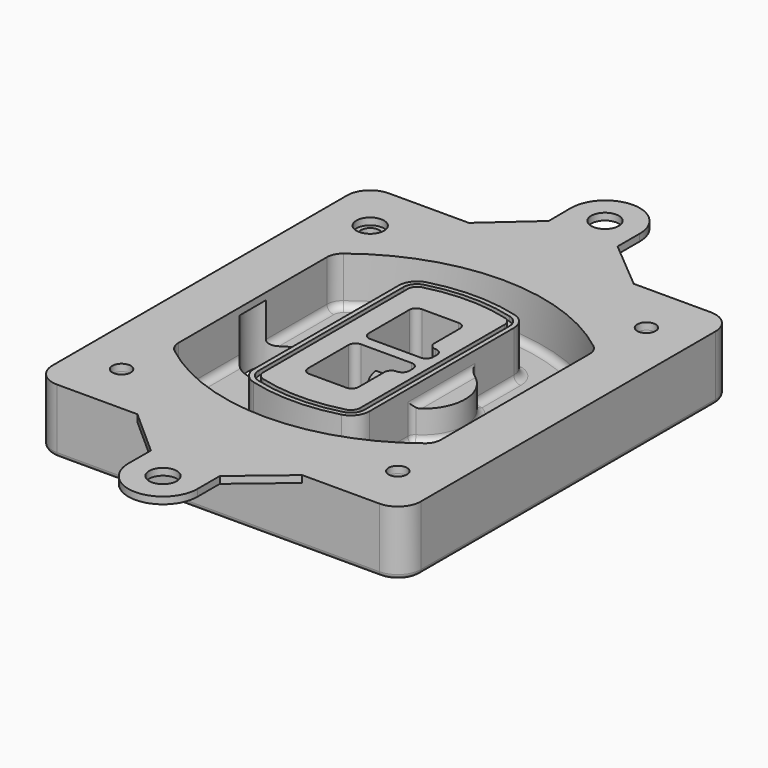
from build123d import *

# Parameters (mm, degrees)
F0_R      = 4
F1_DEPTH  = 25
F2_DEPTH  = 3
F3_DEPTH  = 18
F5_DEPTH  = 21
F6_DEPTH  = 2
F8_DEPTH  = 20
F9_DEPTH  = 16
F10_DEPTH = 25
F7_R      = 6
F7_R_2    = 4
F11_DEPTH = 6
F13_DEPTH = 9
F14_R     = 3
F15_R     = 2
F16_R     = 3.994159008
F16_R_2   = 3.9998575888
F16_R_3   = 6.0078105936
F16_R_4   = 3.9750263549
F16_R_5   = 6
F17_DEPTH = 3


with BuildPart() as f1:
    # F0 (on Top) → F1 (new body)
    with BuildSketch(Plane.XY):
        with BuildLine():
            ThreePointArc((-80, -80), (-77.0710678119, -87.0710678119), (-70, -90))
            Line((-70, -90), (70, -90))
            ThreePointArc((70, -90), (77.0710678119, -87.0710678119), (80, -80))
            Line((80, -80), (80, 80))
            ThreePointArc((80, 80), (77.0710678119, 87.0710678119), (70, 90))
            Line((70, 90), (-70, 90))
            ThreePointArc((-70, 90), (-77.0710678119, 87.0710678119), (-80, 80))
            Line((-80, 80), (-80, -80))
        make_face()
        with Locations((-60, -67.5)):
            Circle(F0_R, mode=Mode.SUBTRACT)
        with Locations((60, -67.5)):
            Circle(F0_R, mode=Mode.SUBTRACT)
        with Locations((-60, 67.5)):
            Circle(F0_R, mode=Mode.SUBTRACT)
        with BuildLine():
            ThreePointArc((-64, 40.2934422872), (-62.5820384798, 46.4328484224), (-58.6153846154, 51.3286200352))
            ThreePointArc((-58.6153846154, 51.3286200352), (0, 71.5), (58.6153846154, 51.3286200352))
            ThreePointArc((58.6153846154, 51.3286200352), (62.5820384798, 46.4328484224), (64, 40.2934422872))
            Line((64, 40.2934422872), (64, -40.2934422872))
            ThreePointArc((64, -40.2934422872), (62.5820384798, -46.4328484224), (58.6153846154, -51.3286200352))
            ThreePointArc((58.6153846154, -51.3286200352), (0, -71.5), (-58.6153846154, -51.3286200352))
            ThreePointArc((-58.6153846154, -51.3286200352), (-62.5820384798, -46.4328484224), (-64, -40.2934422872))
            Line((-64, -40.2934422872), (-64, 40.2934422872))
        make_face(mode=Mode.SUBTRACT)
        with Locations((60, 67.5)):
            Circle(F0_R, mode=Mode.SUBTRACT)
        with BuildLine():
            ThreePointArc((58.6153846154, 51.3286200352), (0, 71.5), (-58.6153846154, 51.3286200352))
            ThreePointArc((-58.6153846154, 51.3286200352), (-62.5820384798, 46.4328484224), (-64, 40.2934422872))
            Line((-64, 40.2934422872), (-64, -40.2934422872))
            ThreePointArc((-64, -40.2934422872), (-62.5820384798, -46.4328484224), (-58.6153846154, -51.3286200352))
            ThreePointArc((-58.6153846154, -51.3286200352), (0, -71.5), (58.6153846154, -51.3286200352))
            ThreePointArc((58.6153846154, -51.3286200352), (62.5820384798, -46.4328484224), (64, -40.2934422872))
            Line((64, -40.2934422872), (64, 40.2934422872))
            ThreePointArc((64, 40.2934422872), (62.5820384798, 46.4328484224), (58.6153846154, 51.3286200352))
        make_face()
        with BuildLine():
            Line((-60, -40.2934422872), (-60, 40.2934422872))
            ThreePointArc((-60, 40.2934422872), (-58.9871703427, 44.6787323838), (-56.1538461538, 48.1757121072))
            ThreePointArc((-56.1538461538, 48.1757121072), (0, 67.5), (56.1538461538, 48.1757121072))
            ThreePointArc((56.1538461538, 48.1757121072), (58.9871703427, 44.6787323838), (60, 40.2934422872))
            Line((60, 40.2934422872), (60, -40.2934422872))
            ThreePointArc((60, -40.2934422872), (58.9871703427, -44.6787323838), (56.1538461538, -48.1757121072))
            ThreePointArc((56.1538461538, -48.1757121072), (0, -67.5), (-56.1538461538, -48.1757121072))
            ThreePointArc((-56.1538461538, -48.1757121072), (-58.9871703427, -44.6787323838), (-60, -40.2934422872))
        make_face(mode=Mode.SUBTRACT)
        with BuildLine():
            ThreePointArc((-56.1538461538, 48.1757121072), (-58.9871703427, 44.6787323838), (-60, 40.2934422872))
            Line((-60, 40.2934422872), (-60, -40.2934422872))
            ThreePointArc((-60, -40.2934422872), (-58.9871703427, -44.6787323838), (-56.1538461538, -48.1757121072))
            ThreePointArc((-56.1538461538, -48.1757121072), (0, -67.5), (56.1538461538, -48.1757121072))
            ThreePointArc((56.1538461538, -48.1757121072), (58.9871703427, -44.6787323838), (60, -40.2934422872))
            Line((60, -40.2934422872), (60, 40.2934422872))
            ThreePointArc((60, 40.2934422872), (58.9871703427, 44.6787323838), (56.1538461538, 48.1757121072))
            ThreePointArc((56.1538461538, 48.1757121072), (0, 67.5), (-56.1538461538, 48.1757121072))
        make_face()
        with BuildLine():
            ThreePointArc((54.3076923077, 45.8110311612), (56.2910192399, 43.3631453548), (57, 40.2934422872))
            Line((57, 40.2934422872), (57, -40.2934422872))
            ThreePointArc((57, -40.2934422872), (56.2910192399, -43.3631453548), (54.3076923077, -45.8110311612))
            ThreePointArc((54.3076923077, -45.8110311612), (0, -64.5), (-54.3076923077, -45.8110311612))
            ThreePointArc((-54.3076923077, -45.8110311612), (-56.2910192399, -43.3631453548), (-57, -40.2934422872))
            Line((-57, -40.2934422872), (-57, 40.2934422872))
            ThreePointArc((-57, 40.2934422872), (-56.2910192399, 43.3631453548), (-54.3076923077, 45.8110311612))
            ThreePointArc((-54.3076923077, 45.8110311612), (0, 64.5), (54.3076923077, 45.8110311612))
        make_face(mode=Mode.SUBTRACT)
        with BuildLine():
            Line((57, -40.2934422872), (57, 40.2934422872))
            ThreePointArc((57, 40.2934422872), (56.2910192399, 43.3631453548), (54.3076923077, 45.8110311612))
            ThreePointArc((54.3076923077, 45.8110311612), (0, 64.5), (-54.3076923077, 45.8110311612))
            ThreePointArc((-54.3076923077, 45.8110311612), (-56.2910192399, 43.3631453548), (-57, 40.2934422872))
            Line((-57, 40.2934422872), (-57, -40.2934422872))
            ThreePointArc((-57, -40.2934422872), (-56.2910192399, -43.3631453548), (-54.3076923077, -45.8110311612))
            ThreePointArc((-54.3076923077, -45.8110311612), (0, -64.5), (54.3076923077, -45.8110311612))
            ThreePointArc((54.3076923077, -45.8110311612), (56.2910192399, -43.3631453548), (57, -40.2934422872))
        make_face()
    extrude(amount=-F1_DEPTH)

    # F0 (on Top) → F2 (join)
    with BuildSketch(Plane.XY):
        with BuildLine():
            ThreePointArc((-56.1538461538, 48.1757121072), (-58.9871703427, 44.6787323838), (-60, 40.2934422872))
            Line((-60, 40.2934422872), (-60, -40.2934422872))
            ThreePointArc((-60, -40.2934422872), (-58.9871703427, -44.6787323838), (-56.1538461538, -48.1757121072))
            ThreePointArc((-56.1538461538, -48.1757121072), (0, -67.5), (56.1538461538, -48.1757121072))
            ThreePointArc((56.1538461538, -48.1757121072), (58.9871703427, -44.6787323838), (60, -40.2934422872))
            Line((60, -40.2934422872), (60, 40.2934422872))
            ThreePointArc((60, 40.2934422872), (58.9871703427, 44.6787323838), (56.1538461538, 48.1757121072))
            ThreePointArc((56.1538461538, 48.1757121072), (0, 67.5), (-56.1538461538, 48.1757121072))
        make_face()
        with BuildLine():
            ThreePointArc((54.3076923077, 45.8110311612), (56.2910192399, 43.3631453548), (57, 40.2934422872))
            Line((57, 40.2934422872), (57, -40.2934422872))
            ThreePointArc((57, -40.2934422872), (56.2910192399, -43.3631453548), (54.3076923077, -45.8110311612))
            ThreePointArc((54.3076923077, -45.8110311612), (0, -64.5), (-54.3076923077, -45.8110311612))
            ThreePointArc((-54.3076923077, -45.8110311612), (-56.2910192399, -43.3631453548), (-57, -40.2934422872))
            Line((-57, -40.2934422872), (-57, 40.2934422872))
            ThreePointArc((-57, 40.2934422872), (-56.2910192399, 43.3631453548), (-54.3076923077, 45.8110311612))
            ThreePointArc((-54.3076923077, 45.8110311612), (0, 64.5), (54.3076923077, 45.8110311612))
        make_face(mode=Mode.SUBTRACT)
    extrude(amount=F2_DEPTH)

    # F0 (on Top) → F3 (cut)
    with BuildSketch(Plane.XY):
        with BuildLine():
            Line((57, -40.2934422872), (57, 40.2934422872))
            ThreePointArc((57, 40.2934422872), (56.2910192399, 43.3631453548), (54.3076923077, 45.8110311612))
            ThreePointArc((54.3076923077, 45.8110311612), (0, 64.5), (-54.3076923077, 45.8110311612))
            ThreePointArc((-54.3076923077, 45.8110311612), (-56.2910192399, 43.3631453548), (-57, 40.2934422872))
            Line((-57, 40.2934422872), (-57, -40.2934422872))
            ThreePointArc((-57, -40.2934422872), (-56.2910192399, -43.3631453548), (-54.3076923077, -45.8110311612))
            ThreePointArc((-54.3076923077, -45.8110311612), (0, -64.5), (54.3076923077, -45.8110311612))
            ThreePointArc((54.3076923077, -45.8110311612), (56.2910192399, -43.3631453548), (57, -40.2934422872))
        make_face()
    extrude(amount=-F3_DEPTH, mode=Mode.SUBTRACT)

    # F4 (on face) → F5 (join, through all)
    with BuildSketch(Plane.XY.offset(3)):
        with BuildLine():
            ThreePointArc((-25, -39.2465276821), (-23.3511545998, -44.1109737193), (-19.0842911877, -46.9702398883))
            ThreePointArc((-19.0842911877, -46.9702398883), (0, -49.5), (19.0842911877, -46.9702398883))
            ThreePointArc((19.0842911877, -46.9702398883), (23.3511545998, -44.1109737193), (25, -39.2465276821))
            Line((25, -39.2465276821), (25, 39.2465276821))
            ThreePointArc((25, 39.2465276821), (23.3511545998, 44.1109737193), (19.0842911877, 46.9702398883))
            ThreePointArc((19.0842911877, 46.9702398883), (0, 49.5), (-19.0842911877, 46.9702398883))
            ThreePointArc((-19.0842911877, 46.9702398883), (-23.3511545998, 44.1109737193), (-25, 39.2465276821))
            Line((-25, 39.2465276821), (-25, -39.2465276821))
        make_face()
        with BuildLine():
            ThreePointArc((18.5632183908, 45.0393118368), (21.7633659499, 42.89486221), (23, 39.2465276821))
            Line((23, 39.2465276821), (23, -39.2465276821))
            ThreePointArc((23, -39.2465276821), (21.7633659499, -42.89486221), (18.5632183908, -45.0393118368))
            ThreePointArc((18.5632183908, -45.0393118368), (0, -47.5), (-18.5632183908, -45.0393118368))
            ThreePointArc((-18.5632183908, -45.0393118368), (-21.7633659499, -42.89486221), (-23, -39.2465276821))
            Line((-23, -39.2465276821), (-23, 39.2465276821))
            ThreePointArc((-23, 39.2465276821), (-21.7633659499, 42.89486221), (-18.5632183908, 45.0393118368))
            ThreePointArc((-18.5632183908, 45.0393118368), (0, 47.5), (18.5632183908, 45.0393118368))
        make_face(mode=Mode.SUBTRACT)
        with BuildLine():
            Line((23, -39.2465276821), (23, 39.2465276821))
            ThreePointArc((23, 39.2465276821), (21.7633659499, 42.89486221), (18.5632183908, 45.0393118368))
            ThreePointArc((18.5632183908, 45.0393118368), (0, 47.5), (-18.5632183908, 45.0393118368))
            ThreePointArc((-18.5632183908, 45.0393118368), (-21.7633659499, 42.89486221), (-23, 39.2465276821))
            Line((-23, 39.2465276821), (-23, -39.2465276821))
            ThreePointArc((-23, -39.2465276821), (-21.7633659499, -42.89486221), (-18.5632183908, -45.0393118368))
            ThreePointArc((-18.5632183908, -45.0393118368), (0, -47.5), (18.5632183908, -45.0393118368))
            ThreePointArc((18.5632183908, -45.0393118368), (21.7633659499, -42.89486221), (23, -39.2465276821))
        make_face()
        with BuildLine():
            ThreePointArc((18.0421455939, 43.1083837852), (20.1755772999, 41.6787507007), (21, 39.2465276821))
            Line((21, 39.2465276821), (21, -39.2465276821))
            ThreePointArc((21, -39.2465276821), (20.1755772999, -41.6787507007), (18.0421455939, -43.1083837852))
            ThreePointArc((18.0421455939, -43.1083837852), (0, -45.5), (-18.0421455939, -43.1083837852))
            ThreePointArc((-18.0421455939, -43.1083837852), (-20.1755772999, -41.6787507007), (-21, -39.2465276821))
            Line((-21, -39.2465276821), (-21, 39.2465276821))
            ThreePointArc((-21, 39.2465276821), (-20.1755772999, 41.6787507007), (-18.0421455939, 43.1083837852))
            ThreePointArc((-18.0421455939, 43.1083837852), (0, 45.5), (18.0421455939, 43.1083837852))
        make_face(mode=Mode.SUBTRACT)
        with BuildLine():
            Line((21, -39.2465276821), (21, 39.2465276821))
            ThreePointArc((21, 39.2465276821), (20.1755772999, 41.6787507007), (18.0421455939, 43.1083837852))
            ThreePointArc((18.0421455939, 43.1083837852), (0, 45.5), (-18.0421455939, 43.1083837852))
            ThreePointArc((-18.0421455939, 43.1083837852), (-20.1755772999, 41.6787507007), (-21, 39.2465276821))
            Line((-21, 39.2465276821), (-21, -39.2465276821))
            ThreePointArc((-21, -39.2465276821), (-20.1755772999, -41.6787507007), (-18.0421455939, -43.1083837852))
            ThreePointArc((-18.0421455939, -43.1083837852), (0, -45.5), (18.0421455939, -43.1083837852))
            ThreePointArc((18.0421455939, -43.1083837852), (20.1755772999, -41.6787507007), (21, -39.2465276821))
        make_face()
        with BuildLine():
            Line((-8, -2.5), (14, -2.5))
            ThreePointArc((14, -2.5), (16.1213203436, -3.3786796564), (17, -5.5))
            Line((17, -5.5), (17, -7.5))
            ThreePointArc((17, -7.5), (16.1213203436, -9.6213203436), (14, -10.5))
            ThreePointArc((14, -10.5), (11.8786796564, -11.3786796564), (11, -13.5))
            Line((11, -13.5), (11, -27.5))
            ThreePointArc((11, -27.5), (10.1213203436, -29.6213203436), (8, -30.5))
            Line((8, -30.5), (-8, -30.5))
            ThreePointArc((-8, -30.5), (-10.1213203436, -29.6213203436), (-11, -27.5))
            Line((-11, -27.5), (-11, -5.5))
            ThreePointArc((-11, -5.5), (-10.1213203436, -3.3786796564), (-8, -2.5))
        make_face(mode=Mode.SUBTRACT)
        with BuildLine():
            ThreePointArc((-8, 2.5), (-10.1213203436, 3.3786796564), (-11, 5.5))
            Line((-11, 5.5), (-11, 27.5))
            ThreePointArc((-11, 27.5), (-10.1213203436, 29.6213203436), (-8, 30.5))
            Line((-8, 30.5), (8, 30.5))
            ThreePointArc((8, 30.5), (10.1213203436, 29.6213203436), (11, 27.5))
            Line((11, 27.5), (11, 13.5))
            ThreePointArc((11, 13.5), (11.8786796564, 11.3786796564), (14, 10.5))
            ThreePointArc((14, 10.5), (16.1213203436, 9.6213203436), (17, 7.5))
            Line((17, 7.5), (17, 5.5))
            ThreePointArc((17, 5.5), (16.1213203436, 3.3786796564), (14, 2.5))
            Line((14, 2.5), (-8, 2.5))
        make_face(mode=Mode.SUBTRACT)
    extrude(amount=-F5_DEPTH)

    # F4 (on face) → F6 (cut)
    with BuildSketch(Plane.XY.offset(3)):
        with BuildLine():
            Line((23, -39.2465276821), (23, 39.2465276821))
            ThreePointArc((23, 39.2465276821), (21.7633659499, 42.89486221), (18.5632183908, 45.0393118368))
            ThreePointArc((18.5632183908, 45.0393118368), (0, 47.5), (-18.5632183908, 45.0393118368))
            ThreePointArc((-18.5632183908, 45.0393118368), (-21.7633659499, 42.89486221), (-23, 39.2465276821))
            Line((-23, 39.2465276821), (-23, -39.2465276821))
            ThreePointArc((-23, -39.2465276821), (-21.7633659499, -42.89486221), (-18.5632183908, -45.0393118368))
            ThreePointArc((-18.5632183908, -45.0393118368), (0, -47.5), (18.5632183908, -45.0393118368))
            ThreePointArc((18.5632183908, -45.0393118368), (21.7633659499, -42.89486221), (23, -39.2465276821))
        make_face()
        with BuildLine():
            ThreePointArc((18.0421455939, 43.1083837852), (20.1755772999, 41.6787507007), (21, 39.2465276821))
            Line((21, 39.2465276821), (21, -39.2465276821))
            ThreePointArc((21, -39.2465276821), (20.1755772999, -41.6787507007), (18.0421455939, -43.1083837852))
            ThreePointArc((18.0421455939, -43.1083837852), (0, -45.5), (-18.0421455939, -43.1083837852))
            ThreePointArc((-18.0421455939, -43.1083837852), (-20.1755772999, -41.6787507007), (-21, -39.2465276821))
            Line((-21, -39.2465276821), (-21, 39.2465276821))
            ThreePointArc((-21, 39.2465276821), (-20.1755772999, 41.6787507007), (-18.0421455939, 43.1083837852))
            ThreePointArc((-18.0421455939, 43.1083837852), (0, 45.5), (18.0421455939, 43.1083837852))
        make_face(mode=Mode.SUBTRACT)
    extrude(amount=-F6_DEPTH, mode=Mode.SUBTRACT)

    # F7 (on face) → F8 (join)
    with BuildSketch(Plane(origin=(0, 0, -25), x_dir=(1, 0, 0), z_dir=(0, 0, -1))):
        with BuildLine():
            ThreePointArc((3.28842436, 0), (16.7567035675, 13.4682792075), (30.224982775, 0))
            Line((30.224982775, 0), (35.224982775, 0))
            ThreePointArc((35.224982775, 0), (16.7567035675, 18.4682792075), (-1.71157564, 0))
            Line((-1.71157564, 0), (3.28842436, 0))
        make_face()
        with BuildLine():
            Line((3.28842436, 0), (30.224982775, 0))
            ThreePointArc((30.224982775, 0), (16.7567035675, 13.4682792075), (3.28842436, 0))
        make_face()
        with BuildLine():
            ThreePointArc((3.28842436, 0), (16.7567035675, -13.4682792075), (30.224982775, 0))
            Line((30.224982775, 0), (3.28842436, 0))
        make_face()
        with BuildLine():
            Line((35.224982775, 0), (30.224982775, 0))
            ThreePointArc((30.224982775, 0), (16.7567035675, -13.4682792075), (3.28842436, 0))
            Line((3.28842436, 0), (-1.71157564, 0))
            ThreePointArc((-1.71157564, 0), (16.7567035675, -18.4682792075), (35.224982775, 0))
        make_face()
    extrude(amount=-F8_DEPTH)

    # F7 (on face) → F9 (cut)
    with BuildSketch(Plane(origin=(0, 0, -25), x_dir=(1, 0, 0), z_dir=(0, 0, -1))):
        with BuildLine():
            Line((3.28842436, 0), (30.224982775, 0))
            ThreePointArc((30.224982775, 0), (16.7567035675, 13.4682792075), (3.28842436, 0))
        make_face()
        with BuildLine():
            ThreePointArc((3.28842436, 0), (16.7567035675, -13.4682792075), (30.224982775, 0))
            Line((30.224982775, 0), (3.28842436, 0))
        make_face()
    extrude(amount=-F9_DEPTH, mode=Mode.SUBTRACT)

    # F7 (on face) → F10 (cut)
    with BuildSketch(Plane(origin=(0, 0, -25), x_dir=(1, 0, 0), z_dir=(0, 0, -1))):
        with BuildLine():
            Line((-59.0318229325, 0), (-32.0952645175, 0))
            ThreePointArc((-32.0952645175, 0), (-45.563543725, 13.4682792075), (-59.0318229325, 0))
        make_face()
        with BuildLine():
            ThreePointArc((-59.0318229325, 0), (-45.563543725, -13.4682792075), (-32.0952645175, 0))
            Line((-32.0952645175, 0), (-59.0318229325, 0))
        make_face()
    extrude(amount=-F10_DEPTH, mode=Mode.SUBTRACT)

    # F7 (on face) → F11 (cut)
    with BuildSketch(Plane(origin=(0, 0, -25), x_dir=(1, 0, 0), z_dir=(0, 0, -1))):
        with Locations((60, -67.5)):
            Circle(F7_R)
        with Locations((60, -67.5)):
            Circle(F7_R_2, mode=Mode.SUBTRACT)
        with Locations((60, -67.5)):
            Circle(F7_R)
        with Locations((60, -67.5)):
            Circle(F7_R_2, mode=Mode.SUBTRACT)
        with Locations((-60, -67.5)):
            Circle(F7_R)
        with Locations((-60, -67.5)):
            Circle(F7_R_2, mode=Mode.SUBTRACT)
        with Locations((-60, -67.5)):
            Circle(F7_R)
        with Locations((-60, -67.5)):
            Circle(F7_R_2, mode=Mode.SUBTRACT)
        with Locations((-60, 67.5)):
            Circle(F7_R)
        with Locations((-60, 67.5)):
            Circle(F7_R_2, mode=Mode.SUBTRACT)
        with Locations((-60, 67.5)):
            Circle(F7_R)
        with Locations((-60, 67.5)):
            Circle(F7_R_2, mode=Mode.SUBTRACT)
        with Locations((60, 67.5)):
            Circle(F7_R)
        with Locations((60, 67.5)):
            Circle(F7_R_2, mode=Mode.SUBTRACT)
        with Locations((60, 67.5)):
            Circle(F7_R)
        with Locations((60, 67.5)):
            Circle(F7_R_2, mode=Mode.SUBTRACT)
    extrude(amount=-F11_DEPTH, mode=Mode.SUBTRACT)

    # F12 (on face) → F13 (cut, through all)
    with BuildSketch(Plane(origin=(0, 0, -9), x_dir=(1, 0, 0), z_dir=(0, 0, -1))):
        with BuildLine():
            Line((11, 13.5), (11, 17.5481537753))
            ThreePointArc((11, 17.5481537753), (2.5696536419, 11.8239143813), (-1.5415842455, 2.5))
            Line((-1.5415842455, 2.5), (3.5224848595, 2.5))
            ThreePointArc((3.5224848595, 2.5), (6.1857188154, 8.3455872281), (11.2536447004, 12.2927168648))
            ThreePointArc((11.2536447004, 12.2927168648), (11.0640958889, 12.8831798879), (11, 13.5))
        make_face()
        with BuildLine():
            ThreePointArc((11.2536447004, -12.2927168648), (6.1857188154, -8.3455872281), (3.5224848595, -2.5))
            Line((3.5224848595, -2.5), (-1.5415842455, -2.5))
            ThreePointArc((-1.5415842455, -2.5), (2.5696536419, -11.8239143813), (11, -17.5481537753))
            Line((11, -17.5481537753), (11, -13.5))
            ThreePointArc((11, -13.5), (11.0640958889, -12.8831798879), (11.2536447004, -12.2927168648))
        make_face()
        with BuildLine():
            ThreePointArc((11.2536447004, 12.2927168648), (6.1857188154, 8.3455872281), (3.5224848595, 2.5))
            Line((3.5224848595, 2.5), (14, 2.5))
            ThreePointArc((14, 2.5), (16.1213203436, 3.3786796564), (17, 5.5))
            Line((17, 5.5), (17, 7.5))
            ThreePointArc((17, 7.5), (16.1213203436, 9.6213203436), (14, 10.5))
            ThreePointArc((14, 10.5), (12.3601599782, 10.9878446101), (11.2536447004, 12.2927168648))
        make_face()
        with BuildLine():
            Line((14, -2.5), (3.5224848595, -2.5))
            ThreePointArc((3.5224848595, -2.5), (6.1857188154, -8.3455872281), (11.2536447004, -12.2927168648))
            ThreePointArc((11.2536447004, -12.2927168648), (12.3601599782, -10.9878446101), (14, -10.5))
            ThreePointArc((14, -10.5), (16.1213203436, -9.6213203436), (17, -7.5))
            Line((17, -7.5), (17, -5.5))
            ThreePointArc((17, -5.5), (16.1213203436, -3.3786796564), (14, -2.5))
        make_face()
    extrude(amount=F13_DEPTH, mode=Mode.SUBTRACT)

    # F14
    f14_edges = [f1.edges().sort_by_distance(p)[0] for p in [
        (-57, -23.703476, -18),
        (-57, 23.703476, -18),
        (25, 0, -5),
        (25, 16.526506, -11.5),
        (25, -16.526506, -11.5),
        (25, -27.886517, -18),
        (35.224983, 0, -18),
    ]]
    fillet(f14_edges, radius=F14_R)

    # F15
    f15_edges = [f1.edges().sort_by_distance(p)[0] for p in [
        (0, -90, -25),
    ]]
    fillet(f15_edges, radius=F15_R)

    # F16 (on face) → F17 (join, through all)
    with BuildSketch(Plane.XY):
        with BuildLine():
            Line((-35.1292788982, 90), (-70, 90))
            ThreePointArc((-70, 90), (-77.0710678119, 87.0710678119), (-80, 80))
            Line((-80, 80), (-80, -80))
            ThreePointArc((-80, -80), (-77.0710678119, -87.0710678119), (-70, -90))
            Line((-70, -90), (-35.1292788982, -90))
            Line((-35.1292788982, -90), (36.4785343409, -90))
            Line((36.4785343409, -90), (70, -90))
            ThreePointArc((70, -90), (77.0710678119, -87.0710678119), (80, -80))
            Line((80, -80), (80, 80))
            ThreePointArc((80, 80), (77.0710678119, 87.0710678119), (70, 90))
            Line((70, 90), (36.4785343409, 90))
            Line((36.4785343409, 90), (-35.1292788982, 90))
        make_face()
        with Locations((-60, -67.5)):
            Circle(F16_R, mode=Mode.SUBTRACT)
        with Locations((60, -67.5)):
            Circle(F16_R_2, mode=Mode.SUBTRACT)
        with Locations((-60, 67.5)):
            Circle(F16_R_3, mode=Mode.SUBTRACT)
        with BuildLine():
            ThreePointArc((56.1538461538, -48.1757121072), (0, -67.5), (-56.1538461538, -48.1757121072))
            ThreePointArc((-56.1538461538, -48.1757121072), (-58.9871703427, -44.6787323838), (-60, -40.2934422872))
            Line((-60, -40.2934422872), (-60, 40.2934422872))
            ThreePointArc((-60, 40.2934422872), (-58.9871703427, 44.6787323838), (-56.1538461538, 48.1757121072))
            ThreePointArc((-56.1538461538, 48.1757121072), (0, 67.5), (56.1538461538, 48.1757121072))
            ThreePointArc((56.1538461538, 48.1757121072), (58.9871703427, 44.6787323838), (60, 40.2934422872))
            Line((60, 40.2934422872), (60, -40.2934422872))
            ThreePointArc((60, -40.2934422872), (58.9871703427, -44.6787323838), (56.1538461538, -48.1757121072))
        make_face(mode=Mode.SUBTRACT)
        with Locations((60, 67.5)):
            Circle(F16_R_4, mode=Mode.SUBTRACT)
        with BuildLine():
            Line((-14.8596997042, 108), (-35.1292788982, 90))
            Line((-35.1292788982, 90), (36.4785343409, 90))
            Line((36.4785343409, 90), (15.0625001279, 108))
            Line((15.0625001279, 108), (15.0625001279, 120))
            ThreePointArc((15.0625001279, 120), (0.0628103634, 135.0964726258), (-14.9368794011, 120))
            Line((-14.9368794011, 120), (-14.8596997042, 108))
        make_face()
        with Locations((0, 120)):
            Circle(F16_R_5, mode=Mode.SUBTRACT)
        with BuildLine():
            Line((36.4785343409, -90), (-35.1292788982, -90))
            Line((-35.1292788982, -90), (-14.8596997042, -108))
            Line((-14.8596997042, -108), (-14.9368794011, -120))
            ThreePointArc((-14.9368794011, -120), (0.0628103634, -135.0964726258), (15.0625001279, -120))
            Line((15.0625001279, -120), (15.0625001279, -108))
            Line((15.0625001279, -108), (36.4785343409, -90))
        make_face()
        with Locations((0, -120)):
            Circle(F16_R_5, mode=Mode.SUBTRACT)
    extrude(amount=F17_DEPTH)


solid = f1.part
